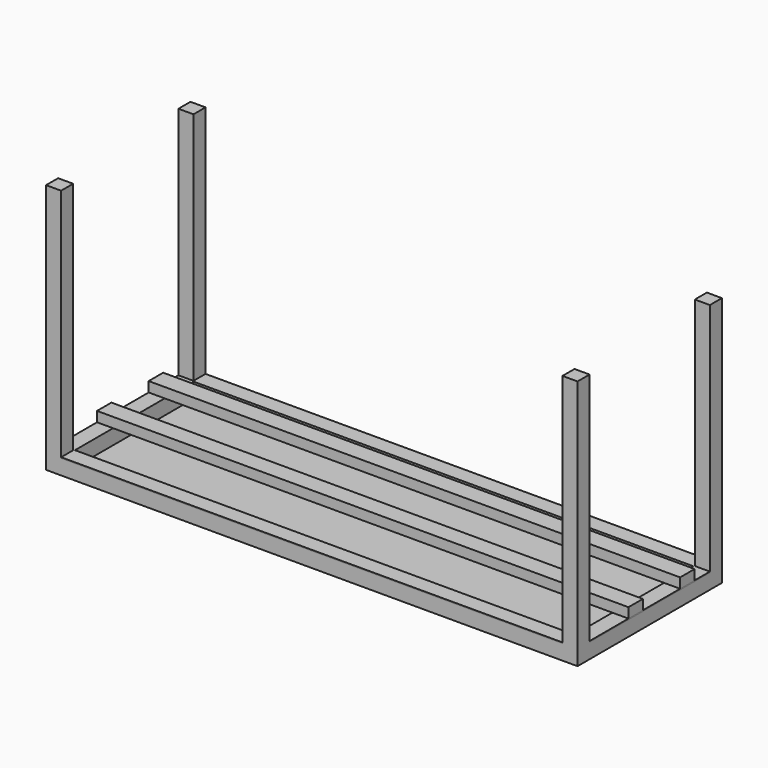
from build123d import *

# Parameters (mm, degrees)
F0_W     = 1000
F0_H     = 30
F1_DEPTH = 30
F0_W_2   = 30
F0_H_2   = 300
F2_DEPTH = 500
F3_DEPTH = 30
F4_T     = -2
F5_W     = 30
F5_H     = 300
F5_W_2   = 996
F5_H_2   = 296
F6_DEPTH = 2
F7_W     = 1060
F7_H     = 36.1880250275
F8_DEPTH = 20
F7_H_2   = 35.9093956649


with BuildPart() as f1:
    # F0 (on Top) → F1 (new body)
    with BuildSketch(Plane.XY):
        with Locations((0, 165)):
            Rectangle(F0_W, F0_H)
    extrude(amount=F1_DEPTH)



with BuildPart() as f1b:
    # F0 (on Top) → F1, piece 2 (new body)
    with BuildSketch(Plane.XY):
        with Locations((-515, 0)):
            Rectangle(F0_W_2, F0_H_2)
    extrude(amount=F1_DEPTH)


with BuildPart() as f1c:
    # F0 (on Top) → F1, piece 3 (new body)
    with BuildSketch(Plane.XY):
        with Locations((0, -165)):
            Rectangle(F0_W, F0_H)
    extrude(amount=F1_DEPTH)


with BuildPart() as f1d:
    # F0 (on Top) → F1, piece 4 (new body)
    with BuildSketch(Plane.XY):
        with Locations((515, 0)):
            Rectangle(F0_W_2, F0_H_2)
    extrude(amount=F1_DEPTH)


with BuildPart() as f1_1:
    add(f1.part)

    add(f1b.part)  # F2 merges F1b

    add(f1c.part)  # F2 merges F1c

    add(f1d.part)  # F2 merges F1d
    # F0 (on Top) → F2 (join)
    with BuildSketch(Plane.XY):
        with Locations((-515, 165)):
            Rectangle(F0_W_2, F0_H)
        with Locations((-515, -165)):
            Rectangle(F0_W_2, F0_H)
        with Locations((515, -165)):
            Rectangle(F0_W_2, F0_H)
        with Locations((515, 165)):
            Rectangle(F0_W_2, F0_H)
    extrude(amount=F2_DEPTH)


with BuildPart() as f3:
    # F0 (on Top) → F3 (new body)
    with BuildSketch(Plane.XY):
        Rectangle(F0_W, F0_H_2)
    extrude(amount=F3_DEPTH)

    # F4
    f4_openings = [f3.faces().sort_by_distance(p)[0] for p in [
        (0, 0, 30),
    ]]
    offset(amount=F4_T, openings=f4_openings)

    # F5 (on face) → F6 (join)
    with BuildSketch(Plane.XY.offset(30)):
        with Locations((-515, 0)):
            Rectangle(F5_W, F5_H)
        Polygon((-500, 180), (-500, 150), (-500, -150), (-500, -180), (500, -180), (500, -150), (530, -150), (530, 150), (500, 150), (500, 180), align=None)
        Rectangle(F5_W_2, F5_H_2, mode=Mode.SUBTRACT)
    extrude(amount=F6_DEPTH)


with BuildPart() as f8:
    # F7 (on face) → F8 (new body)
    with BuildSketch(Plane.XY.offset(32)):
        with Locations((0, 93.8637312502)):
            Rectangle(F7_W, F7_H)
    extrude(amount=F8_DEPTH)


with BuildPart() as f8b:
    # F7 (on face) → F8, piece 2 (new body)
    with BuildSketch(Plane.XY.offset(32)):
        with Locations((0, -35.0748170167)):
            Rectangle(F7_W, F7_H_2)
    extrude(amount=F8_DEPTH)


solid = Compound([f1_1.part, f3.part, f8.part, f8b.part])
